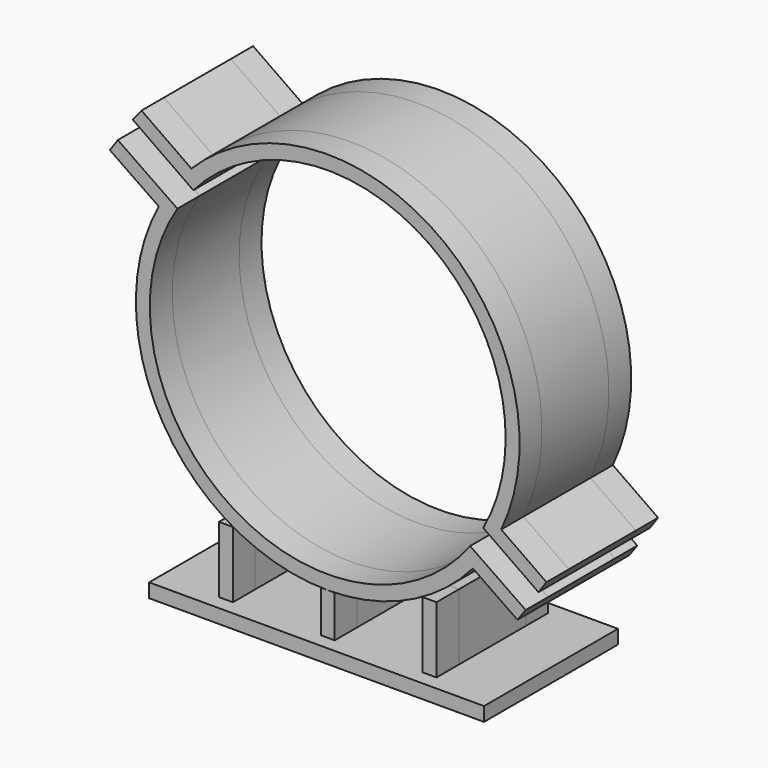
from build123d import *

# Parameters (mm, degrees)
F0_W     = 304.8
F0_H     = 152.4
F1_DEPTH = 6.35
F2_W     = 12.7
F2_H     = 60.325
F3_DEPTH = 63.5
F4_DEPTH = 38.1


with BuildPart() as f1:
    # F0 (on Top) → F1 (new body, symmetric)
    with BuildSketch(Plane.XY):
        Rectangle(F0_W, F0_H)
    extrude(amount=F1_DEPTH, both=True)

    # F2 (on Front) → F3 (join, symmetric)
    with BuildSketch(Plane.XZ):
        with BuildLine():
            ThreePointArc((-153.72821, 301.909341), (-149.931379, 129.551416), (2e-06, 44.45))
            ThreePointArc((2e-06, 44.45), (72.633137, 60.272235), (132.104141, 104.871731))
            Line((132.104141, 104.871731), (172.674975, 76.904358))
            Line((172.674975, 76.904358), (180.142065, 87.18208))
            Line((180.142065, 87.18208), (129.611379, 122.015245))
            ThreePointArc((129.611379, 122.015245), (-91.902294, 85.757057), (-136.819402, 305.678445))
            Line((-136.819402, 305.678445), (-191.056914, 343.066899))
            Line((-191.056914, 343.066899), (-198.264937, 332.610589))
            Line((-198.264937, 332.610589), (-153.72821, 301.909341))
        make_face()
        Polygon((-6.35, 6.35), (6.35, 6.35), (6.35, 44.45), (2e-06, 44.45), (-6.35, 44.45), align=None)
        with Locations((-92.65634, 36.891353)):
            Rectangle(F2_W, F2_H)
        with Locations((92.65634, 36.891353)):
            Rectangle(F2_W, F2_H)
        with BuildLine():
            Line((-169.497113, 373.713912), (-177.517217, 363.825812))
            Line((-177.517217, 363.825812), (-122.320092, 325.176369))
            ThreePointArc((-122.320092, 325.176369), (92.876364, 351.716195), (141.538609, 140.420517))
            Line((141.538609, 140.420517), (191.797482, 105.228876))
            Line((191.797482, 105.228876), (199.081903, 115.632107))
            Line((199.081903, 115.632107), (157.888755, 144.47586))
            ThreePointArc((157.888755, 144.47586), (100.160785, 362.119426), (-124.101396, 341.927489))
            Line((-124.101396, 341.927489), (-169.497113, 373.713912))
        make_face()
    extrude(amount=F3_DEPTH, both=True)


with BuildPart() as f4:
    # F2 (on Front) → F4 (new body, symmetric)
    with BuildSketch(Plane.XZ):
        with BuildLine():
            ThreePointArc((-153.72821, 301.909341), (-149.931379, 129.551416), (2e-06, 44.45))
            ThreePointArc((2e-06, 44.45), (72.633137, 60.272235), (132.104141, 104.871731))
            Line((132.104141, 104.871731), (172.674975, 76.904358))
            Line((172.674975, 76.904358), (180.142065, 87.18208))
            Line((180.142065, 87.18208), (129.611379, 122.015245))
            ThreePointArc((129.611379, 122.015245), (-91.902294, 85.757057), (-136.819402, 305.678445))
            Line((-136.819402, 305.678445), (-191.056914, 343.066899))
            Line((-191.056914, 343.066899), (-198.264937, 332.610589))
            Line((-198.264937, 332.610589), (-153.72821, 301.909341))
        make_face()
        Polygon((-6.35, 6.35), (6.35, 6.35), (6.35, 44.45), (2e-06, 44.45), (-6.35, 44.45), align=None)
        with Locations((-92.65634, 36.891353)):
            Rectangle(F2_W, F2_H)
        with Locations((92.65634, 36.891353)):
            Rectangle(F2_W, F2_H)
        with BuildLine():
            Line((-169.497113, 373.713912), (-177.517217, 363.825812))
            Line((-177.517217, 363.825812), (-122.320092, 325.176369))
            ThreePointArc((-122.320092, 325.176369), (92.876364, 351.716195), (141.538609, 140.420517))
            Line((141.538609, 140.420517), (191.797482, 105.228876))
            Line((191.797482, 105.228876), (199.081903, 115.632107))
            Line((199.081903, 115.632107), (157.888755, 144.47586))
            ThreePointArc((157.888755, 144.47586), (100.160785, 362.119426), (-124.101396, 341.927489))
            Line((-124.101396, 341.927489), (-169.497113, 373.713912))
        make_face()
    extrude(amount=F4_DEPTH, both=True)


solid = Compound([f1.part, f4.part])
